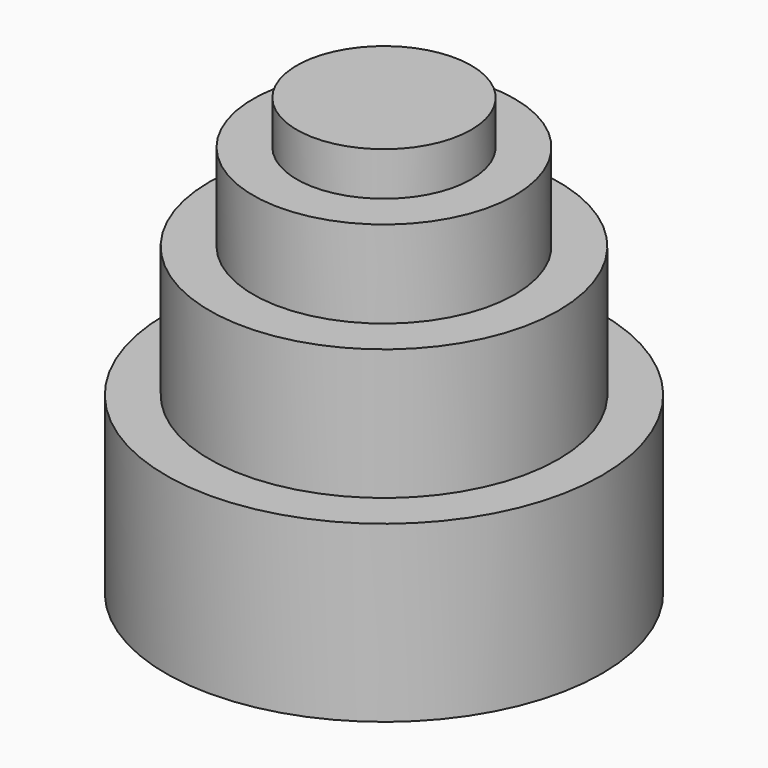
from build123d import *

# Parameters (mm, degrees)
F0_R     = 31.75
F1_DEPTH = 25.4
F2_R     = 25.4
F3_DEPTH = 19.05
F4_R     = 19.05
F5_DEPTH = 12.7
F6_R     = 12.7
F7_DEPTH = 6.35
F8_T     = -2.54


with BuildPart() as f1:
    # F0 (on Top) → F1 (new body)
    with BuildSketch(Plane.XY):
        Circle(F0_R)
    extrude(amount=F1_DEPTH)

    # F2 (on face) → F3 (join)
    with BuildSketch(Plane.XY.offset(25.4)):
        Circle(F2_R)
    extrude(amount=F3_DEPTH)

    # F4 (on face) → F5 (join)
    with BuildSketch(Plane.XY.offset(44.45)):
        Circle(F4_R)
    extrude(amount=F5_DEPTH)

    # F6 (on face) → F7 (join)
    with BuildSketch(Plane.XY.offset(57.15)):
        Circle(F6_R)
    extrude(amount=F7_DEPTH)

    # F8
    f8_openings = [f1.faces().sort_by_distance(p)[0] for p in [
        (0, 0, 0),
    ]]
    offset(amount=F8_T, openings=f8_openings, kind=Kind.INTERSECTION)


solid = f1.part
